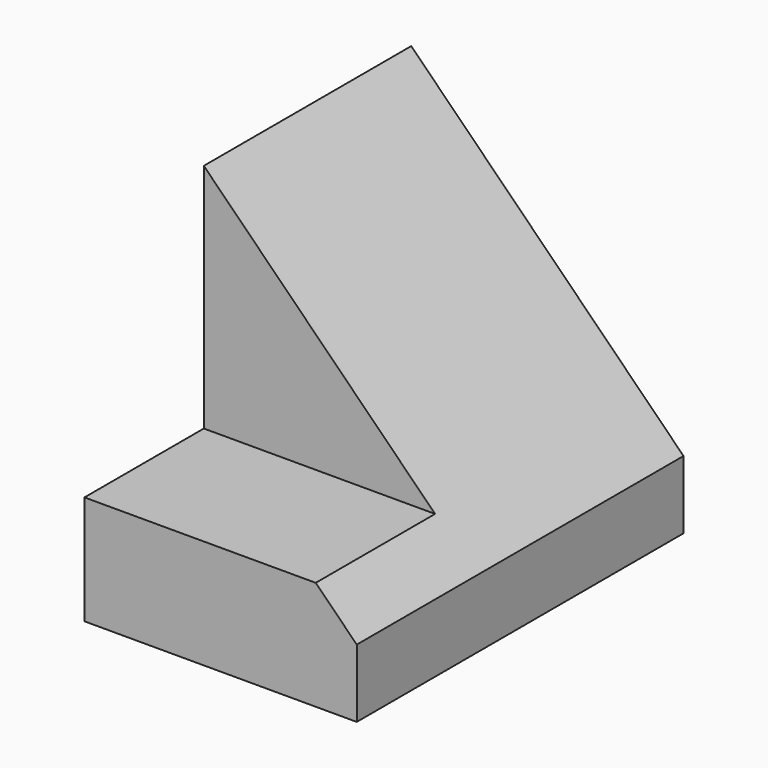
from build123d import *

# Parameters (mm, degrees)
F1_DEPTH = 38.1
F3_DEPTH = 25.4


with BuildPart() as f1:
    # F0 (on Front) → F1 (new body)
    with BuildSketch(Plane.XZ):
        Polygon((0, 6.35), (0, 0), (25.4, 0), (25.4, 6.35), (19.05, 6.35), align=None)
        Polygon((0, 25.4), (0, 6.35), (19.05, 6.35), (19.05, 12.7), (6.35, 25.4), align=None)
        Polygon((19.05, 6.35), (25.4, 6.35), (19.05, 12.7), align=None)
        Polygon((0, 31.75), (0, 25.4), (6.35, 25.4), align=None)
    extrude(amount=F1_DEPTH)

    # F2 (on face) → F3 (cut)
    with BuildSketch(Plane(origin=(0, 0, 0), x_dir=(0, -1, 0), z_dir=(-1, 0, 0))):
        Polygon((38.1, 31.75), (24.184382, 31.75), (24.184382, 23.479005), (24.184382, 15.820617), (24.184382, 10.177595), (38.1, 10.177595), align=None)
    extrude(amount=-F3_DEPTH, mode=Mode.SUBTRACT)


solid = f1.part
